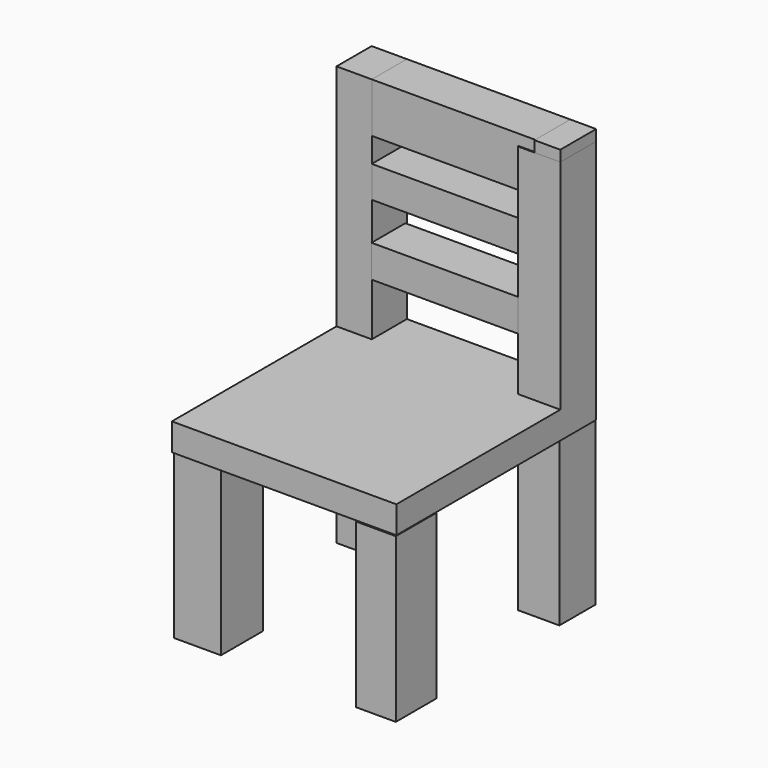
from build123d import *

# Parameters (mm, degrees)
F0_W      = 16.425934
F0_H      = 20.463459
F1_DEPTH  = 76.2
F2_W      = 19.392505
F2_H      = 21.04526
F3_DEPTH  = 76.2
F4_W      = 21.844752
F4_H      = 24.541287
F5_DEPTH  = 76.2
F6_W      = 18.460218
F6_H      = 23.609979
F7_DEPTH  = 76.2
F9_DEPTH  = 12.7
F10_W     = 16.425934
F10_H     = 20.463459
F11_DEPTH = 101.6
F12_W     = 19.78503
F12_H     = 20.904045
F13_DEPTH = 101.6
F14_W     = 16.425934
F14_H     = 20.463459
F15_DEPTH = 17.78
F17_W     = 19.725192
F17_H     = 15.106492
F18_DEPTH = 76.2
F16_W     = 20.463459
F16_H     = 23.158947
F19_DEPTH = 76.2
F20_W     = 12.046587
F20_H     = 20.904045
F21_DEPTH = 5.08
F22_W     = 20.463459
F22_H     = 14.740571
F23_DEPTH = 76.2


with BuildPart() as f1:
    # F0 (on Top) → F1 (new body)
    with BuildSketch(Plane.XY):
        with Locations((-49.287254, 51.43506)):
            Rectangle(F0_W, F0_H)
    extrude(amount=F1_DEPTH)


with BuildPart() as f3:
    # F2 (on Top) → F3 (new body)
    with BuildSketch(Plane.XY):
        with Locations((36.796529, 51.59935)):
            Rectangle(F2_W, F2_H)
    extrude(amount=F3_DEPTH)


with BuildPart() as f5:
    # F4 (on Top) → F5 (new body)
    with BuildSketch(Plane.XY):
        with Locations((-45.916483, -42.002873)):
            Rectangle(F4_W, F4_H)
    extrude(amount=F5_DEPTH)


with BuildPart() as f7:
    # F6 (on Top) → F7 (new body)
    with BuildSketch(Plane.XY):
        with Locations((38.25601, -43.688491)):
            Rectangle(F6_W, F6_H)
    extrude(amount=F7_DEPTH)


with BuildPart() as f9:
    # F8 (on face) → F9 (new body)
    with BuildSketch(Plane.XY.offset(76.2)):
        Polygon((47.154181, 61.66679), (-41.074287, 61.66679), (-41.074287, 41.203331), (-57.500221, 41.203331), (-57.500221, -54.754354), (47.154181, -54.754354), align=None)
    extrude(amount=F9_DEPTH)

    # F12 (on face) → F13 (join)
    with BuildSketch(Plane.XY.offset(88.9)):
        with Locations((37.261666, 51.214767)):
            Rectangle(F12_W, F12_H)
    extrude(amount=F13_DEPTH)


with BuildPart() as f11:
    # F10 (on face) → F11 (new body)
    with BuildSketch(Plane.XY.offset(76.2)):
        with Locations((-49.287254, 51.43506)):
            Rectangle(F10_W, F10_H)
    extrude(amount=F11_DEPTH)

    # F14 (on face) → F15 (join)
    with BuildSketch(Plane.XY.offset(177.8)):
        with Locations((-49.287254, 51.43506)):
            Rectangle(F14_W, F14_H)
    extrude(amount=F15_DEPTH)


with BuildPart() as f18:
    # F17 (on face) → F18 (new body)
    with BuildSketch(Plane.YZ.offset(-41.074287)):
        with Locations((50.926762, 121.035043)):
            Rectangle(F17_W, F17_H)
    extrude(amount=F18_DEPTH)


with BuildPart() as f19:
    # F16 (on face) → F19 (new body)
    with BuildSketch(Plane.YZ.offset(-41.074287)):
        with Locations((51.43506, 184.000526)):
            Rectangle(F16_W, F16_H)
    extrude(amount=F19_DEPTH)


with BuildPart() as f21:
    # F20 (on face) → F21 (new body)
    with BuildSketch(Plane.XY.offset(190.5)):
        with Locations((41.130888, 51.214767)):
            Rectangle(F20_W, F20_H)
    extrude(amount=F21_DEPTH)


with BuildPart() as f23:
    # F22 (on face) → F23 (new body)
    with BuildSketch(Plane.YZ.offset(-41.074287)):
        with Locations((51.43506, 153.52992)):
            Rectangle(F22_W, F22_H)
    extrude(amount=F23_DEPTH)


solid = Compound([f1.part, f3.part, f5.part, f7.part, f9.part, f11.part, f18.part, f19.part, f21.part, f23.part])
